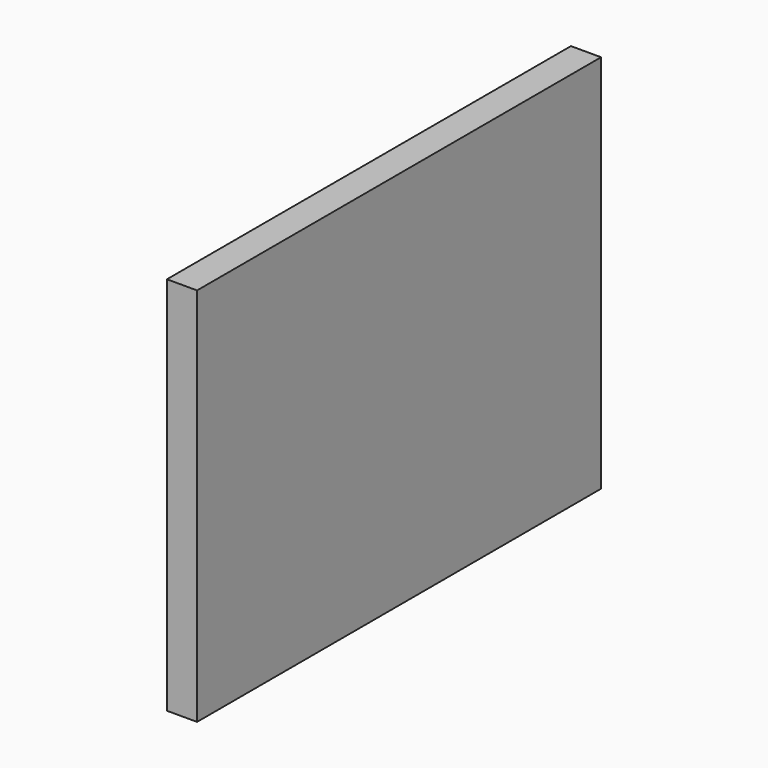
from build123d import *

# Parameters (mm, degrees)
F0_W     = 100
F0_H     = 75
F0_R     = 2.3876
F0_W_2   = 6.35
F1_DEPTH = 6.35


with BuildPart() as f1:
    # F0 (on Right) → F1 (new body)
    with BuildSketch(Plane.YZ):
        Rectangle(F0_W, F0_H)
        with Locations((-39.3828, -27.5)):
            Circle(F0_R, mode=Mode.SUBTRACT)
        with Locations((-53.175, 0)):
            Rectangle(F0_W_2, F0_H)
        Polygon((-50, 37.5), (50, 37.5), (50, 42.5), (-56.35, 42.5), (-56.35, 37.5), align=None)
        with Locations((-39.3828, -27.5)):
            Circle(F0_R)
    extrude(amount=F1_DEPTH)


solid = f1.part
